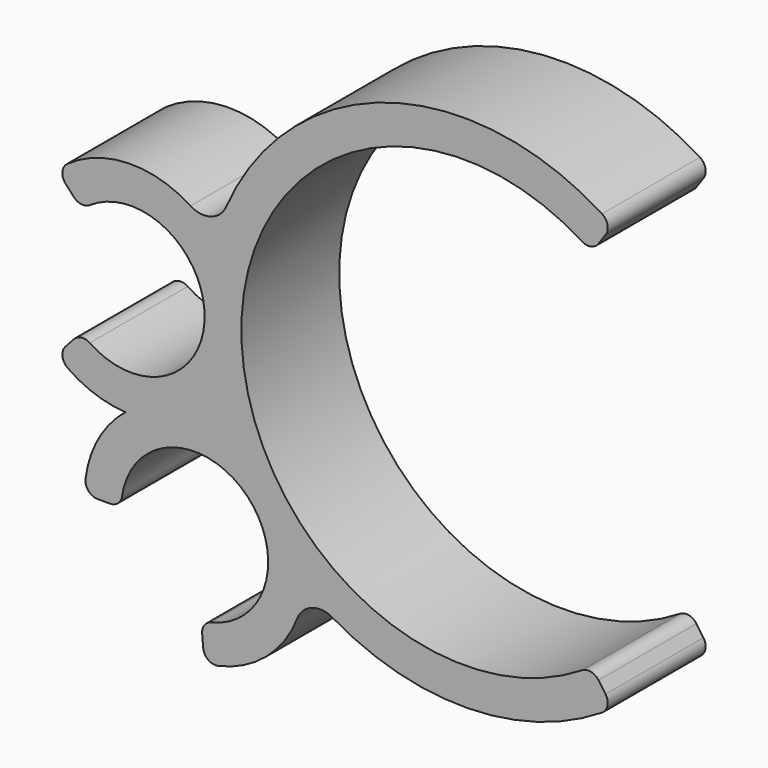
from build123d import *

# Parameters (mm, degrees)
F0_R     = 6
F1_DEPTH = 5
F2_R     = 2
F3_COUNT = 2
F3_ANGLE = 36
F5_DEPTH = 10.0010001
F6_R     = 1


with BuildPart() as f1:
    # F0 (on Front) → F1 (new body, symmetric)
    with BuildSketch(Plane.XZ):
        with BuildLine():
            ThreePointArc((-20.3662859317, 5.8640119715), (-18.7542946844, 3.1267729293), (-18.1936839424, 0))
            ThreePointArc((-18.1936839424, 0), (-18.7542946844, -3.1267729293), (-20.3662859317, -5.8640119715))
            ThreePointArc((-20.3662859317, -5.8640119715), (2.9610481198, -20.9858150446), (21.1936839424, 0))
            ThreePointArc((21.1936839424, 0), (2.9610481198, 20.9858150446), (-20.3662859317, 5.8640119715))
        make_face()
        with BuildLine():
            ThreePointArc((-18.1936839424, 0), (0, 18.1936839424), (18.1936839424, 0))
            ThreePointArc((18.1936839424, 0), (0, -18.1936839424), (-18.1936839424, 0))
        make_face(mode=Mode.SUBTRACT)
        with BuildLine():
            ThreePointArc((-20.3662859317, -5.8640119715), (-18.7542946844, -3.1267729293), (-18.1936839424, 0))
            ThreePointArc((-18.1936839424, 0), (-18.7542946844, 3.1267729293), (-20.3662859317, 5.8640119715))
            ThreePointArc((-20.3662859317, 5.8640119715), (-20.9858150446, 2.9610481198), (-21.1936839424, 0))
            ThreePointArc((-21.1936839424, 0), (-20.9858150446, -2.9610481198), (-20.3662859317, -5.8640119715))
        make_face()
        with BuildLine():
            ThreePointArc((-21.1936839424, 0), (-20.9858150446, 2.9610481198), (-20.3662859317, 5.8640119715))
            ThreePointArc((-20.3662859317, 5.8640119715), (-36.1936839424, 0), (-20.3662859317, -5.8640119715))
            ThreePointArc((-20.3662859317, -5.8640119715), (-20.9858150446, -2.9610481198), (-21.1936839424, 0))
        make_face()
        with Locations((-27.1936839424, 0)):
            Circle(F0_R, mode=Mode.SUBTRACT)
    extrude(amount=F1_DEPTH, both=True)

    # F2
    f2_edges = [f1.edges().sort_by_distance(p)[0] for p in [
        (-20.366286, 0, 5.864012),
        (-20.366286, 0, -5.864012),
    ]]
    fillet(f2_edges, radius=F2_R)

    # F3: F1 ×2 about axis
    f3_axis = Axis((0, 0, 0), (0, -1, 0))


with BuildPart() as f1_1:
    add(f1.part)
    for i in range(1, F3_COUNT):
        add(f1.part.rotate(f3_axis, i * F3_ANGLE / (F3_COUNT - 1)))

    # F4 (on face) → F5 (cut, through all)
    with BuildSketch(Plane.XZ.offset(5)):
        with BuildLine():
            ThreePointArc((-31.2472251881, -4.4236640209), (-33.1936839424, 0), (-31.2472251881, 4.4236640209))
            Line((-31.2472251881, 4.4236640209), (-33.273995811, 6.6354960313))
            ThreePointArc((-33.273995811, 6.6354960313), (-36.1936839424, 0), (-33.273995811, -6.6354960313))
            Line((-33.273995811, -6.6354960313), (-31.2472251881, -4.4236640209))
        make_face()
        with BuildLine():
            ThreePointArc((12.1561977089, -17.3608495275), (21.1936839424, 0), (12.1561977089, 17.3608495275))
            Line((12.1561977089, 17.3608495275), (10.4354683998, 14.9033933946))
            ThreePointArc((10.4354683998, 14.9033933946), (16.1379947524, 8.4009083301), (18.1936839424, 0))
            ThreePointArc((18.1936839424, 0), (16.1379947524, -8.4009083301), (10.4354683998, -14.9033933946))
            Line((10.4354683998, -14.9033933946), (12.1561977089, -17.3608495275))
        make_face()
        with BuildLine():
            Line((-28.0001524491, -15.9840463769), (-31.0001524491, -15.9840463769))
            ThreePointArc((-31.0001524491, -15.9840463769), (-28.0804643176, -22.6195424082), (-21.2157507644, -24.9497986597))
            Line((-21.2157507644, -24.9497986597), (-21.4772179926, -21.9612145654))
            ThreePointArc((-21.4772179926, -21.9612145654), (-26.0536936948, -20.4077103977), (-28.0001524491, -15.9840463769))
        make_face()
    extrude(amount=-F5_DEPTH, mode=Mode.SUBTRACT)

    # F6
    f6_edges = [f1_1.edges().sort_by_distance(p)[0] for p in [
        (-31.247225, 0, 4.423664),
        (-33.273996, 0, 6.635496),
        (-33.273996, 0, -6.635496),
        (-31.247225, 0, -4.423664),
        (10.435468, 0, 14.903393),
        (12.156198, 0, 17.36085),
        (12.156198, 0, -17.36085),
        (10.435468, 0, -14.903393),
        (-28.000152, 0, -15.984046),
        (-31.000152, 0, -15.984046),
        (-21.477218, 0, -21.961215),
        (-21.215751, 0, -24.949799),
    ]]
    fillet(f6_edges, radius=F6_R)


solid = f1_1.part
